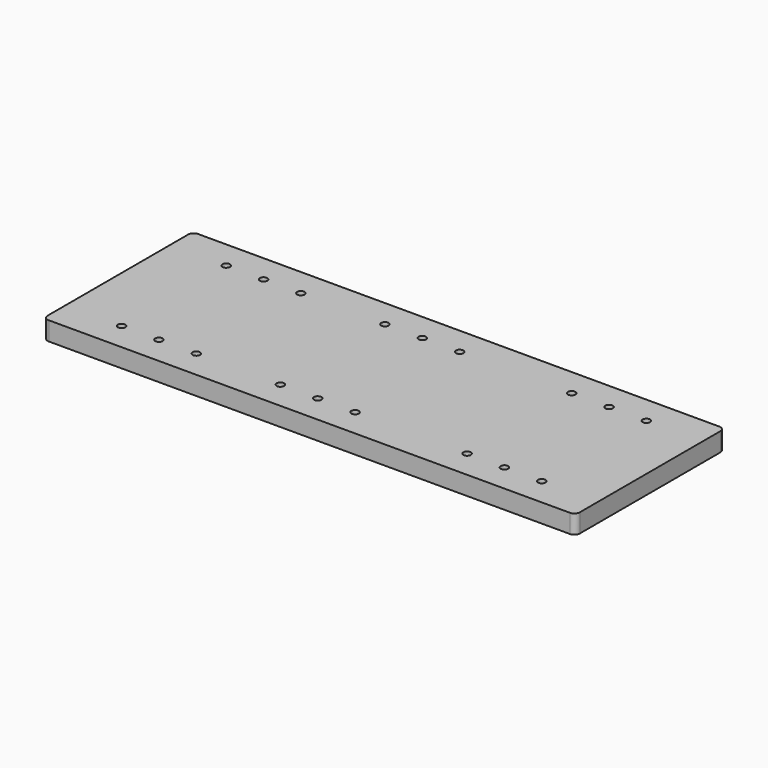
from build123d import *

# Parameters (mm, degrees)
SKETCH_W  = 285
SKETCH_H  = 100
SKETCH_R  = 2
PAD_DEPTH = 10
FILLET_R  = 3


with BuildPart() as part:
    # Sketch → Pad (new body)
    with BuildSketch(Plane.XY):
        with Locations((57.5, 50)):
            Rectangle(SKETCH_W, SKETCH_H)
        with Locations((30, 85)):
            Circle(SKETCH_R, mode=Mode.SUBTRACT)
        with Locations((30, 15)):
            Circle(SKETCH_R, mode=Mode.SUBTRACT)
        with Locations((170, 85)):
            Circle(SKETCH_R, mode=Mode.SUBTRACT)
        with Locations((170, 15)):
            Circle(SKETCH_R, mode=Mode.SUBTRACT)
        with Locations((50, 85)):
            Circle(SKETCH_R, mode=Mode.SUBTRACT)
        with Locations((50, 15)):
            Circle(SKETCH_R, mode=Mode.SUBTRACT)
        with Locations((150, 85)):
            Circle(SKETCH_R, mode=Mode.SUBTRACT)
        with Locations((150, 15)):
            Circle(SKETCH_R, mode=Mode.SUBTRACT)
        with Locations((70, 85)):
            Circle(SKETCH_R, mode=Mode.SUBTRACT)
        with Locations((70, 15)):
            Circle(SKETCH_R, mode=Mode.SUBTRACT)
        with Locations((130, 15)):
            Circle(SKETCH_R, mode=Mode.SUBTRACT)
        with Locations((130, 85)):
            Circle(SKETCH_R, mode=Mode.SUBTRACT)
        with Locations((-35, 15)):
            Circle(SKETCH_R, mode=Mode.SUBTRACT)
        with Locations((-15, 15)):
            Circle(SKETCH_R, mode=Mode.SUBTRACT)
        with Locations((-55, 15)):
            Circle(SKETCH_R, mode=Mode.SUBTRACT)
        with Locations((-55, 85)):
            Circle(SKETCH_R, mode=Mode.SUBTRACT)
        with Locations((-35, 85)):
            Circle(SKETCH_R, mode=Mode.SUBTRACT)
        with Locations((-15, 85)):
            Circle(SKETCH_R, mode=Mode.SUBTRACT)
    extrude(amount=PAD_DEPTH)

    # Fillet
    fillet_edges = [part.edges().sort_by_distance(p)[0] for p in [
        (-85, 0, 5),
        (200, 0, 5),
        (200, 100, 5),
        (-85, 100, 5),
    ]]
    fillet(fillet_edges, radius=FILLET_R)


solid = part.part
